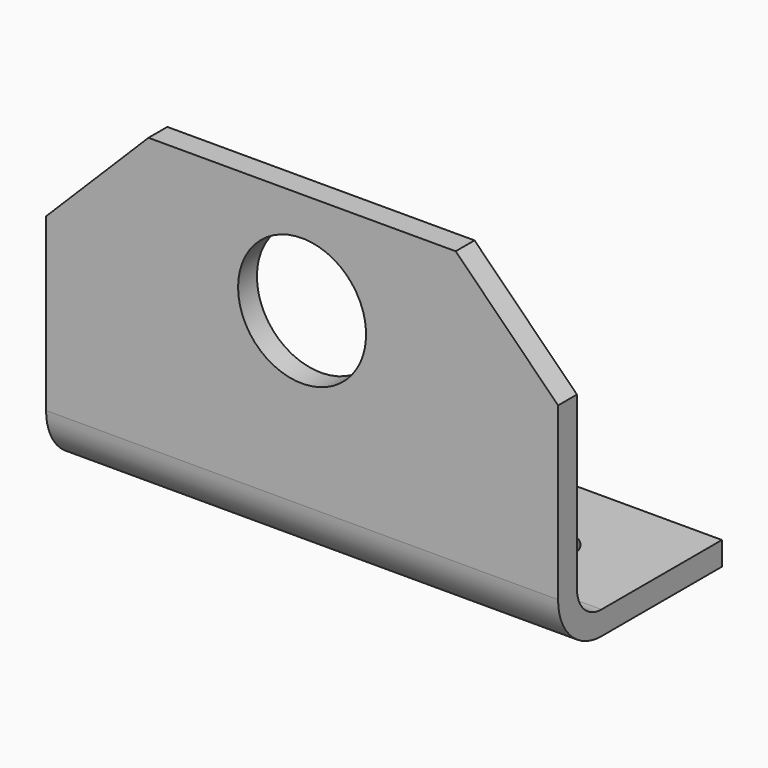
from build123d import *

# Parameters (mm, degrees)
F1_DEPTH      = 25
F1_DEPTH_BACK = 25
F4_DEPTH      = 2.301
F5_R          = 3
F6_R          = 5.3
F7_D          = 12.5
F8_SIZE       = 10


with BuildPart() as f1:
    # F0 (on Right) → F1 (new body, two sides)
    with BuildSketch(Plane.YZ) as f1_sk:
        Polygon((2.3, 32), (0, 32), (0, 0), (20, 0), (20, 2.3), (2.3, 2.3), align=None)
    extrude(amount=F1_DEPTH)
    extrude(f1_sk.sketch, amount=-F1_DEPTH_BACK)

    # F3 (on face) → F4 (cut, through all)
    with BuildSketch(Plane.XY.offset(2.3)):
        with BuildLine():
            Line((-15, 8.35), (15, 8.35))
            ThreePointArc((15, 8.35), (17.65, 11), (15, 13.65))
            Line((15, 13.65), (-15, 13.65))
            ThreePointArc((-15, 13.65), (-17.65, 11), (-15, 8.35))
        make_face()
    extrude(amount=-F4_DEPTH, mode=Mode.SUBTRACT)

    # F5
    f5_edges = [f1.edges().sort_by_distance(p)[0] for p in [
        (0, 2.3, 2.3),
    ]]
    fillet(f5_edges, radius=F5_R)

    # F6
    f6_edges = [f1.edges().sort_by_distance(p)[0] for p in [
        (0, 0, 0),
    ]]
    fillet(f6_edges, radius=F6_R)

    # F7 (through all)
    with Locations(Plane.XZ):
        with Locations((0, 22)):
            Hole(F7_D / 2)

    # F8
    f8_edges = [f1.edges().sort_by_distance(p)[0] for p in [
        (25, 1.15, 32),
        (-25, 1.15, 32),
    ]]
    chamfer(f8_edges, length=F8_SIZE)


solid = f1.part
